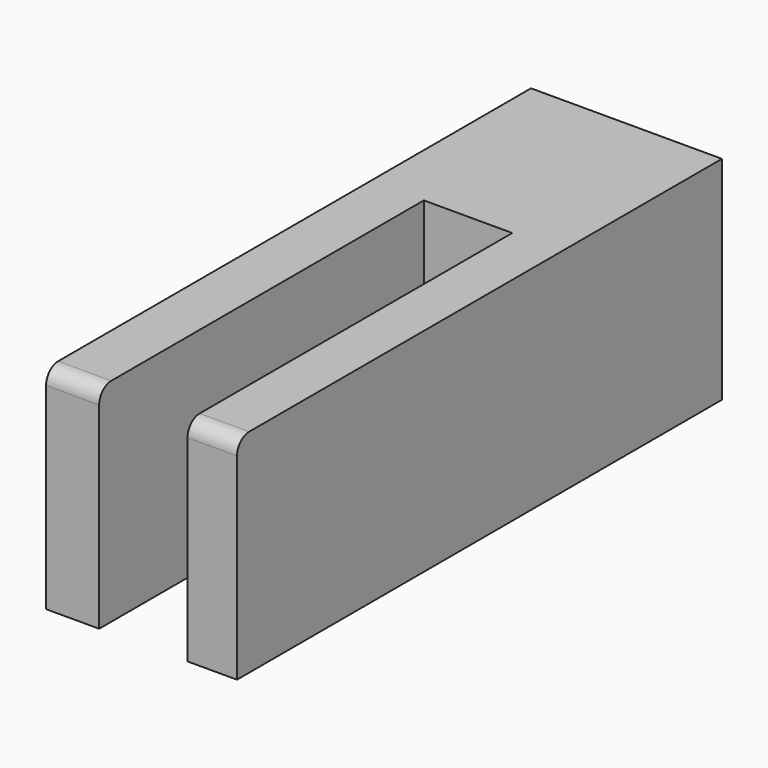
from build123d import *

# Parameters (mm, degrees)
F1_DEPTH = 8
F2_W     = 3.703703
F2_H     = 20
F3_DEPTH = 9.30533


with BuildPart() as f1:
    # F0 (on Right) → F1 (new body)
    with BuildSketch(Plane.YZ):
        with BuildLine():
            Line((18.307374, 8.89), (-6.457626, 8.89))
            ThreePointArc((-6.457626, 8.89), (-6.906639, 8.704013), (-7.092626, 8.255))
            Line((-7.092626, 8.255), (-7.092626, 0))
            Line((-7.092626, 0), (18.307374, 0))
            Line((18.307374, 0), (18.307374, 8.89))
        make_face()
    extrude(amount=F1_DEPTH)

    # F2 (on Top) → F3 (cut)
    with BuildSketch(Plane.XY):
        with Locations((4.075629, -0.084073)):
            Rectangle(F2_W, F2_H)
    extrude(amount=F3_DEPTH, mode=Mode.SUBTRACT)


solid = f1.part
